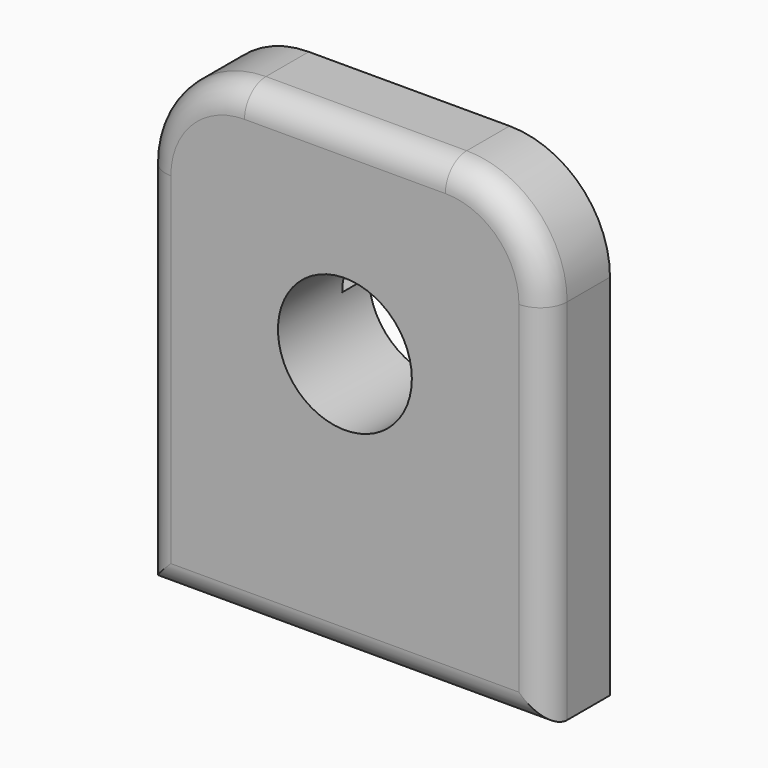
from build123d import *

# Parameters (mm, degrees)
F0_R     = 12.7
F1_DEPTH = 15.24
F3_DEPTH = 6.35
F4_R     = 5.08


with BuildPart() as f1:
    # F0 (on Front) → F1 (new body)
    with BuildSketch(Plane.XZ):
        with BuildLine():
            Line((19.05, 38.1), (-19.05, 38.1))
            ThreePointArc((-19.05, 38.1), (-32.520384, 32.520384), (-38.1, 19.05))
            Line((-38.1, 19.05), (-38.1, -50.8))
            Line((-38.1, -50.8), (38.1, -50.8))
            Line((38.1, -50.8), (38.1, 19.05))
            ThreePointArc((38.1, 19.05), (32.520384, 32.520384), (19.05, 38.1))
        make_face()
        Circle(F0_R, mode=Mode.SUBTRACT)
    extrude(amount=F1_DEPTH)

    # F2 (on Front) → F3 (join)
    with BuildSketch(Plane.XZ):
        with BuildLine():
            Line((25.4, -50.8), (25.4, 0))
            Line((25.4, 0), (12.7, 0))
            ThreePointArc((12.7, 0), (0, -12.7), (-12.7, 0))
            Line((-12.7, 0), (-25.4, 0))
            Line((-25.4, 0), (-25.4, -50.8))
            Line((-25.4, -50.8), (25.4, -50.8))
        make_face()
    extrude(amount=-F3_DEPTH)

    # F4
    f4_edges = [f1.edges().sort_by_distance(p)[0] for p in [
        (-38.1, -15.24, -15.875),
        (-32.520384, -15.24, 32.520384),
        (0, -15.24, 38.1),
        (32.520384, -15.24, 32.520384),
        (38.1, -15.24, -15.875),
        (0, -15.24, -50.8),
    ]]
    fillet(f4_edges, radius=F4_R)


solid = f1.part
